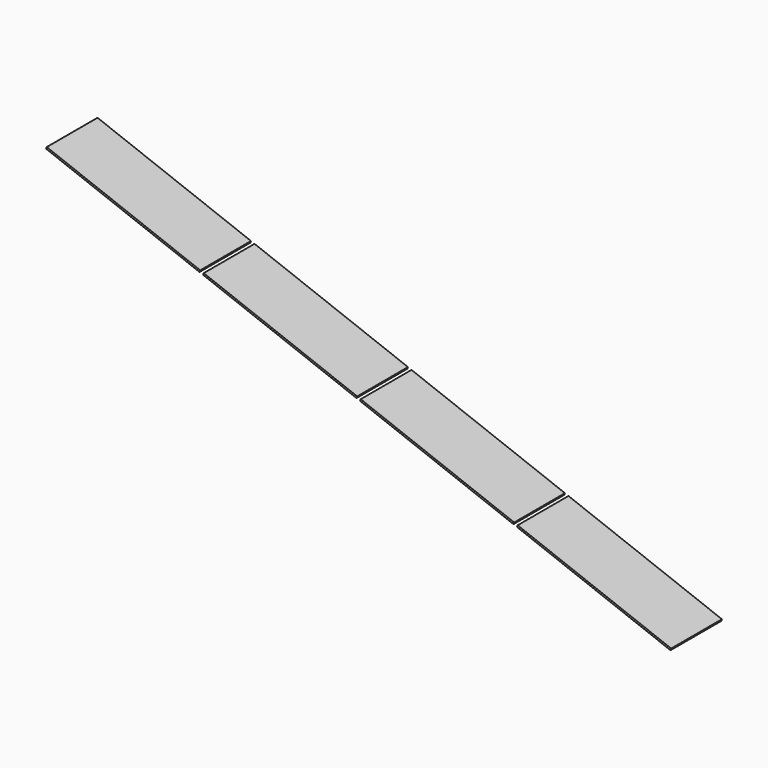
from build123d import *

# Parameters (mm, degrees)
F3_W     = 4400
F3_H     = 1700
F4_DEPTH = 50


with BuildPart() as f4:
    # F3 (on face) → F4 (new body)
    with BuildSketch(Plane(origin=(2458.6537548104, 0, 6438.5777319229), x_dir=(0.9342044743, 0, -0.3567379993), z_dir=(-0.3567379993, 0, -0.9342044743))):
        with Locations((1555.5974960327, 0)):
            Rectangle(F3_W, F3_H)
    extrude(amount=F4_DEPTH)


with BuildPart() as f4b:
    # F3 (on face) → F4, piece 2 (new body)
    with BuildSketch(Plane(origin=(2458.6537548104, 0, 6438.5777319229), x_dir=(0.9342044743, 0, -0.3567379993), z_dir=(-0.3567379993, 0, -0.9342044743))):
        with Locations((6055.5974960327, 0)):
            Rectangle(F3_W, F3_H)
    extrude(amount=F4_DEPTH)


with BuildPart() as f4c:
    # F3 (on face) → F4, piece 3 (new body)
    with BuildSketch(Plane(origin=(2458.6537548104, 0, 6438.5777319229), x_dir=(0.9342044743, 0, -0.3567379993), z_dir=(-0.3567379993, 0, -0.9342044743))):
        with Locations((10555.5974960327, 0)):
            Rectangle(F3_W, F3_H)
    extrude(amount=F4_DEPTH)


with BuildPart() as f4d:
    # F3 (on face) → F4, piece 4 (new body)
    with BuildSketch(Plane(origin=(2458.6537548104, 0, 6438.5777319229), x_dir=(0.9342044743, 0, -0.3567379993), z_dir=(-0.3567379993, 0, -0.9342044743))):
        with Locations((15055.5974960327, 0)):
            Rectangle(F3_W, F3_H)
    extrude(amount=F4_DEPTH)


solid = Compound([f4.part, f4b.part, f4c.part, f4d.part])
